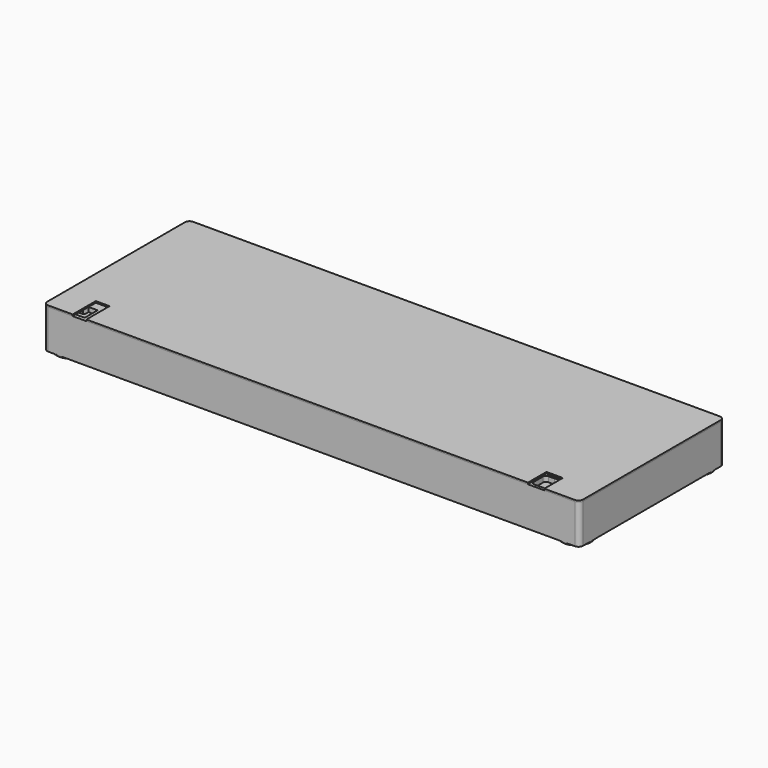
from build123d import *

# Parameters (mm, degrees)
F1_DEPTH        = 1
F2_R            = 1.5
F3_DEPTH        = 25
F4_W            = 2
F4_H            = 15
F5_DEPTH        = 3
F6_R            = 9.5
F6_R_2          = 7.5
F7_DEPTH        = 1
F9_DEPTH        = 3
F11_DEPTH       = 8
F12_W           = 7.0765316486
F12_H           = 7.8762918711
F13_DEPTH       = 7
F14_R           = 3.06673429
F15_DEPTH       = 10
F16_R           = 1.9156828579
F17_DEPTH       = 16.001
F18_R           = 1.5991314709
F19_DEPTH       = 17.001
F20_R           = 1.9088950862
F21_DEPTH       = 14.001
F23_DEPTH       = 3.5
F25_DEPTH       = 8.9
F26_R           = 1.5
F27_DEPTH       = 14.601
F28_R           = 2.9238732622
F29_DEPTH       = 5
F30_R           = 1.5
F31_DEPTH       = 18.501
F33_DEPTH       = 1
F34_R           = 3.05
F34_R_2         = 1.5
F35_DEPTH       = 2
F36_R           = 2.5
F36_R_2         = 3
F37_DEPTH       = 4
F38_D           = 3
F38_CBORE_D     = 6
F38_CBORE_DEPTH = 0.5
F39_D           = 3.3
F39_CSINK_D     = 6.72
F39_CSINK_ANGLE = 90


with BuildPart() as f1:
    # F0 (on Top) → F1 (new body)
    with BuildSketch(Plane.XY):
        with BuildLine():
            Line((-174.5, -60), (174.5, -60))
            ThreePointArc((174.5, -60), (176.6213203436, -59.1213203436), (177.5, -57))
            Line((177.5, -57), (177.5, 57))
            ThreePointArc((177.5, 57), (176.6213203436, 59.1213203436), (174.5, 60))
            Line((174.5, 60), (-174.5, 60))
            ThreePointArc((-174.5, 60), (-176.6213203436, 59.1213203436), (-177.5, 57))
            Line((-177.5, 57), (-177.5, -57))
            ThreePointArc((-177.5, -57), (-176.6213203436, -59.1213203436), (-174.5, -60))
        make_face()
    extrude(amount=F1_DEPTH)

    # F2 (on face) → F3 (join)
    with BuildSketch(Plane.XY.offset(1)):
        with BuildLine():
            Line((-174.5, -60), (174.5, -60))
            ThreePointArc((174.5, -60), (176.6213203436, -59.1213203436), (177.5, -57))
            Line((177.5, -57), (177.5, 57))
            ThreePointArc((177.5, 57), (176.6213203436, 59.1213203436), (174.5, 60))
            Line((174.5, 60), (-174.5, 60))
            ThreePointArc((-174.5, 60), (-176.6213203436, 59.1213203436), (-177.5, 57))
            Line((-177.5, 57), (-177.5, -57))
            ThreePointArc((-177.5, -57), (-176.6213203436, -59.1213203436), (-174.5, -60))
        make_face()
        with Locations((-174.5, 57)):
            Circle(F2_R, mode=Mode.SUBTRACT)
        with BuildLine():
            Line((175.5, 54.5), (175.5, -32.8179103136))
            ThreePointArc((175.5, -32.8179103136), (174.6213203436, -34.9392306572), (172.5, -35.8179103136))
            Line((172.5, -35.8179103136), (145.5, -35.8179103136))
            ThreePointArc((145.5, -35.8179103136), (143.3786796564, -36.69658997), (142.5, -38.8179103136))
            Line((142.5, -38.8179103136), (142.5, -55))
            ThreePointArc((142.5, -55), (141.6213203436, -57.1213203436), (139.5, -58))
            Line((139.5, -58), (-144.5, -58))
            ThreePointArc((-144.5, -58), (-146.6213203436, -57.1213203436), (-147.5, -55))
            Line((-147.5, -55), (-147.5, -38.8179103136))
            ThreePointArc((-147.5, -38.8179103136), (-148.3786796564, -36.69658997), (-150.5, -35.8179103136))
            Line((-150.5, -35.8179103136), (-172.5, -35.8179103136))
            ThreePointArc((-172.5, -35.8179103136), (-174.6213203436, -34.9392306572), (-175.5, -32.8179103136))
            Line((-175.5, -32.8179103136), (-175.5, 54.5))
            Line((-175.5, 54.5), (-174.5, 54.5))
            ThreePointArc((-174.5, 54.5), (-172.732233047, 55.232233047), (-172, 57))
            Line((-172, 57), (-172, 58))
            Line((-172, 58), (172, 58))
            Line((172, 58), (172, 57))
            ThreePointArc((172, 57), (172.732233047, 55.232233047), (174.5, 54.5))
            Line((174.5, 54.5), (175.5, 54.5))
        make_face(mode=Mode.SUBTRACT)
        with Locations((174.5, 57)):
            Circle(F2_R, mode=Mode.SUBTRACT)
    extrude(amount=F3_DEPTH)

    # F4 (on face) → F5 (cut)
    with BuildSketch(Plane(origin=(0, 60, 0), x_dir=(-1, 0, 0), z_dir=(0, 1, 0))):
        with Locations((-160, 10)):
            Rectangle(F4_W, F4_H)
        with Locations((-156, 10)):
            Rectangle(F4_W, F4_H)
        with Locations((-152, 10)):
            Rectangle(F4_W, F4_H)
        with Locations((-148, 10)):
            Rectangle(F4_W, F4_H)
        with Locations((-144, 10)):
            Rectangle(F4_W, F4_H)
        with Locations((-140, 10)):
            Rectangle(F4_W, F4_H)
        with Locations((-136, 10)):
            Rectangle(F4_W, F4_H)
        with Locations((-132, 10)):
            Rectangle(F4_W, F4_H)
        with Locations((-128, 10)):
            Rectangle(F4_W, F4_H)
        with Locations((-124, 10)):
            Rectangle(F4_W, F4_H)
        with Locations((-120, 10)):
            Rectangle(F4_W, F4_H)
        with Locations((-116, 10)):
            Rectangle(F4_W, F4_H)
        with Locations((-112, 10)):
            Rectangle(F4_W, F4_H)
        with Locations((-108, 10)):
            Rectangle(F4_W, F4_H)
        with Locations((-104, 10)):
            Rectangle(F4_W, F4_H)
        with Locations((-100, 10)):
            Rectangle(F4_W, F4_H)
        with Locations((-96, 10)):
            Rectangle(F4_W, F4_H)
        with Locations((-92, 10)):
            Rectangle(F4_W, F4_H)
        with Locations((-88, 10)):
            Rectangle(F4_W, F4_H)
        with Locations((-84, 10)):
            Rectangle(F4_W, F4_H)
    extrude(amount=-F5_DEPTH, mode=Mode.SUBTRACT)

    # F6 (on face) → F7 (join)
    with BuildSketch(Plane(origin=(0, 0, 0), x_dir=(1, 0, 0), z_dir=(0, 0, -1))):
        with Locations((-167.5, 50)):
            Circle(F6_R)
        with Locations((-167.5, 50)):
            Circle(F6_R_2, mode=Mode.SUBTRACT)
        with Locations((167.5, 50)):
            Circle(F6_R)
        with Locations((167.5, 50)):
            Circle(F6_R_2, mode=Mode.SUBTRACT)
        with Locations((-167.5, -50)):
            Circle(F6_R)
        with Locations((-167.5, -50)):
            Circle(F6_R_2, mode=Mode.SUBTRACT)
        with Locations((167.5, -50)):
            Circle(F6_R)
        with Locations((167.5, -50)):
            Circle(F6_R_2, mode=Mode.SUBTRACT)
    extrude(amount=F7_DEPTH)

    # F8 (on face) → F9 (cut)
    with BuildSketch(Plane.XY.offset(26)):
        Polygon((-158.3376619767, -43.7691062689), (-173.8055199385, -43.7691062689), (-173.8055199385, -57.5402937829), (-152.3185223341, -57.5402937829), (-152.3185223341, -46.8375980854), (-158.3376619767, -46.8375980854), align=None)
    extrude(amount=-F9_DEPTH, mode=Mode.SUBTRACT)

    # F10 (on face) → F11 (cut)
    with BuildSketch(Plane.XY.offset(23)):
        with BuildLine():
            Line((-158.3376619767, -43.7691062689), (-164.5214855671, -43.7691062689))
            Line((-164.5214855671, -43.7691062689), (-164.5214855671, -47.4566817284))
            ThreePointArc((-164.5214855671, -47.4566817284), (-163.6428059107, -49.5780020719), (-161.5214855671, -50.4566817284))
            Line((-161.5214855671, -50.4566817284), (-159.3376619767, -50.4566817284))
            ThreePointArc((-159.3376619767, -50.4566817284), (-158.6305551955, -50.1637885095), (-158.3376619767, -49.4566817284))
            Line((-158.3376619767, -49.4566817284), (-158.3376619767, -43.7691062689))
        make_face()
    extrude(amount=-F11_DEPTH, mode=Mode.SUBTRACT)

    # F12 (on face) → F13 (cut)
    with BuildSketch(Plane.XY.offset(23)):
        with Locations((-170.2672541142, -47.7072522044)):
            Rectangle(F12_W, F12_H)
    extrude(amount=-F13_DEPTH, mode=Mode.SUBTRACT)

    # F14 (on face) → F15 (cut)
    with BuildSketch(Plane.XY.offset(23)):
        with Locations((-168.3543622494, -54.2459785938)):
            Circle(F14_R)
    extrude(amount=-F15_DEPTH, mode=Mode.SUBTRACT)

    # F16 (on face) → F17 (cut, through all)
    with BuildSketch(Plane.XY.offset(15)):
        with Locations((-161.280632019, -46.7847660184)):
            Circle(F16_R)
    extrude(amount=-F17_DEPTH, mode=Mode.SUBTRACT)

    # F18 (on face) → F19 (cut, through all)
    with BuildSketch(Plane.XY.offset(16)):
        with Locations((-170.3975498676, -47.5875847042)):
            Circle(F18_R)
    extrude(amount=-F19_DEPTH, mode=Mode.SUBTRACT)

    # F20 (on face) → F21 (cut, through all)
    with BuildSketch(Plane.XY.offset(13)):
        with Locations((-168.3543622494, -54.2459785938)):
            Circle(F20_R)
    extrude(amount=-F21_DEPTH, mode=Mode.SUBTRACT)

    # F22 (on face) → F23 (cut)
    with BuildSketch(Plane.XY.offset(26)):
        with BuildLine():
            Line((174.0527605057, -49.5446926713), (174.0527605057, -40.8446926713))
            ThreePointArc((174.0527605057, -40.8446926713), (173.469609302, -39.327843875), (171.9527605057, -38.7446926713))
            Line((171.9527605057, -38.7446926713), (154.1527605057, -38.7446926713))
            ThreePointArc((154.1527605057, -38.7446926713), (152.6359117094, -39.327843875), (152.0527605057, -40.8446926713))
            Line((152.0527605057, -40.8446926713), (152.0527605057, -44.3446926713))
            ThreePointArc((152.0527605057, -44.3446926713), (151.466974068, -45.7589062337), (150.0527605057, -46.3446926713))
            Line((150.0527605057, -46.3446926713), (146.1527605057, -46.3446926713))
            ThreePointArc((146.1527605057, -46.3446926713), (144.6359117094, -46.927843875), (144.0527605057, -48.4446926713))
            Line((144.0527605057, -48.4446926713), (144.0527605057, -55.9446926713))
            ThreePointArc((144.0527605057, -55.9446926713), (144.6359117094, -57.4615414676), (146.1527605057, -58.0446926713))
            Line((146.1527605057, -58.0446926713), (162.2527605057, -58.0446926713))
            Line((162.2527605057, -58.0446926713), (162.2527605057, -57.5446926713))
            Line((162.2527605057, -57.5446926713), (172.9527605057, -57.5446926713))
            ThreePointArc((172.9527605057, -57.5446926713), (174.469609302, -56.9615414676), (175.0527605057, -55.4446926713))
            Line((175.0527605057, -55.4446926713), (175.0527605057, -49.5446926713))
            Line((175.0527605057, -49.5446926713), (174.0527605057, -49.5446926713))
        make_face()
    extrude(amount=-F23_DEPTH, mode=Mode.SUBTRACT)

    # F24 (on face) → F25 (cut)
    with BuildSketch(Plane.XY.offset(22.5)):
        with BuildLine():
            Line((169.3027605057, -44.7446926713), (173.9527605057, -44.7446926713))
            Line((173.9527605057, -44.7446926713), (173.9527605057, -40.8446926713))
            ThreePointArc((173.9527605057, -40.8446926713), (173.366974068, -39.4304791089), (171.9527605057, -38.8446926713))
            Line((171.9527605057, -38.8446926713), (169.3027605057, -38.8446926713))
            ThreePointArc((169.3027605057, -38.8446926713), (167.2167955012, -39.7087276668), (166.3527605057, -41.7946926713))
            ThreePointArc((166.3527605057, -41.7946926713), (167.2167955012, -43.8806576758), (169.3027605057, -44.7446926713))
        make_face()
    extrude(amount=-F25_DEPTH, mode=Mode.SUBTRACT)

    # F26 (on face) → F27 (cut, through all)
    with BuildSketch(Plane.XY.offset(13.6)):
        with Locations((169.3027605057, -41.7946926713)):
            Circle(F26_R)
    extrude(amount=-F27_DEPTH, mode=Mode.SUBTRACT)

    # F28 (on face) → F29 (cut)
    with BuildSketch(Plane.XY.offset(22.5)):
        with Locations((163.7390106916, -46.0040085018)):
            Circle(F28_R)
    extrude(amount=-F29_DEPTH, mode=Mode.SUBTRACT)

    # F30 (on face) → F31 (cut, through all)
    with BuildSketch(Plane.XY.offset(17.5)):
        with Locations((163.7390106916, -46.0040085018)):
            Circle(F30_R)
    extrude(amount=-F31_DEPTH, mode=Mode.SUBTRACT)

    # F34 (on face) → F35 (cut, through all)
    with BuildSketch(Plane(origin=(-177.5, 0, 0), x_dir=(0, -1, 0), z_dir=(-1, 0, 0))):
        with Locations((-34.2122390866, 13)):
            Circle(F34_R)
        with Locations((-21.3122390866, 13)):
            Circle(F34_R)
        with Locations((-8.4122390866, 13)):
            Circle(F34_R)
        with Locations((4.4877609134, 13)):
            Circle(F34_R)
        with Locations((14.2377609134, 13)):
            Circle(F34_R_2)
        with Locations((26.1877609134, 13)):
            Circle(F34_R)
    extrude(amount=-F35_DEPTH, mode=Mode.SUBTRACT)

    # F36 (on face) → F37 (join)
    with BuildSketch(Plane(origin=(0, 0, 0), x_dir=(1, 0, 0), z_dir=(0, 0, -1))):
        with Locations((-138.911023736, -2.0992436912)):
            Circle(F36_R)
        with Locations((-80.911023736, -2.0992436912)):
            Circle(F36_R)
        with Locations((-138.911023736, -51.0992436912)):
            Circle(F36_R)
        with Locations((-80.911023736, -51.0992436912)):
            Circle(F36_R)
        with Locations((-99.4113609195, 50.8404619098)):
            Circle(F36_R_2)
        with Locations((41.0886390805, 50.8404619098)):
            Circle(F36_R_2)
        with Locations((-99.4113609195, 29.8404619098)):
            Circle(F36_R_2)
        with Locations((41.0886390805, 29.8404619098)):
            Circle(F36_R_2)
        with Locations((64.8018866777, 38.3925102651)):
            Circle(F36_R_2)
        with Locations((127.4018866777, 52.2925102651)):
            Circle(F36_R_2)
        with Locations((56.776505245, 11.0375274836)):
            Circle(F36_R_2)
        with Locations((166.776505245, 11.0375274836)):
            Circle(F36_R_2)
    extrude(amount=-F37_DEPTH)

    # F38 (through all)
    with Locations(Plane(origin=(0, 0, 0), x_dir=(1, 0, 0), z_dir=(0, 0, -1))):
        with Locations((-138.911023736, -2.0992436912), (-80.911023736, -2.0992436912), (-138.911023736, -51.0992436912), (-80.911023736, -51.0992436912)):
            CounterBoreHole(F38_D / 2, F38_CBORE_D / 2, F38_CBORE_DEPTH)

    # F39 (through all)
    with Locations(Plane(origin=(0, 0, 0), x_dir=(1, 0, 0), z_dir=(0, 0, -1))):
        with Locations((-99.4113609195, 50.8404619098), (-99.4113609195, 29.8404619098), (41.0886390805, 50.8404619098), (41.0886390805, 29.8404619098), (64.8018866777, 38.3925102651), (127.4018866777, 52.2925102651), (56.776505245, 11.0375274836), (166.776505245, 11.0375274836)):
            CounterSinkHole(F39_D / 2, F39_CSINK_D / 2, counter_sink_angle=F39_CSINK_ANGLE)


with BuildPart() as f33:
    # F32 (on face) → F33 (new body)
    with BuildSketch(Plane.XY.offset(26)):
        with BuildLine():
            ThreePointArc((-174.5, 60), (-176.6213203436, 59.1213203436), (-177.5, 57))
            Line((-177.5, 57), (-177.5, -57))
            ThreePointArc((-177.5, -57), (-176.6213203436, -59.1213203436), (-174.5, -60))
            Line((-174.5, -60), (-158.3151966333, -60))
            Line((-158.3151966333, -60), (-158.3151966333, -40.8399440348))
            Line((-158.3151966333, -40.8399440348), (-149.217158556, -40.8399440348))
            Line((-149.217158556, -40.8399440348), (-149.217158556, -60))
            Line((-149.217158556, -60), (143.3894634247, -60))
            Line((143.3894634247, -60), (143.3894634247, -44.6708314121))
            Line((143.3894634247, -44.6708314121), (154.2399227619, -44.6708314121))
            Line((154.2399227619, -44.6708314121), (154.2399227619, -60))
            Line((154.2399227619, -60), (174.5, -60))
            ThreePointArc((174.5, -60), (176.6213203436, -59.1213203436), (177.5, -57))
            Line((177.5, -57), (177.5, 57))
            ThreePointArc((177.5, 57), (176.6213203436, 59.1213203436), (174.5, 60))
            Line((174.5, 60), (-174.5, 60))
        make_face()
    extrude(amount=F33_DEPTH)


solid = Compound([f1.part, f33.part])
